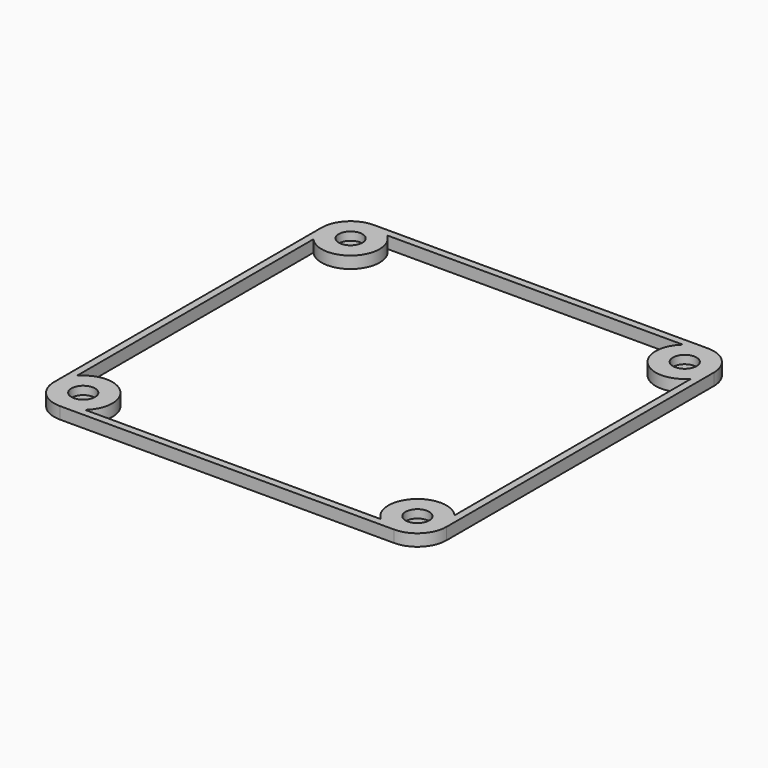
from build123d import *

# Parameters (mm, degrees)
SKETCH128_W     = 108
SKETCH128_H     = 108
PAD051_DEPTH    = 3.27
FILLET010_R     = 8
SKETCH129_R     = 3.25
POCKET051_DEPTH = 2.27
POCKET050_DEPTH = 3.271


with BuildPart() as part:
    # Sketch128 → Pad051 (new body)
    with BuildSketch(Plane.XY):
        with Locations((54, 54)):
            Rectangle(SKETCH128_W, SKETCH128_H)
    extrude(amount=PAD051_DEPTH)

    # Fillet010
    fillet010_edges = [part.edges().sort_by_distance(p)[0] for p in [
        (108, 0, 1.635),
        (108, 108, 1.635),
        (0, 108, 1.635),
        (0, 0, 1.635),
    ]]
    fillet(fillet010_edges, radius=FILLET010_R)

    # Sketch129 (on Face5 of Fillet010) → Pocket051 (cut)
    with BuildSketch(Plane.XY.offset(3.27)):
        with Locations((8, 8)):
            Circle(SKETCH129_R)
        with Locations((100, 8)):
            Circle(SKETCH129_R)
        with Locations((100, 100)):
            Circle(SKETCH129_R)
        with Locations((8, 100)):
            Circle(SKETCH129_R)
    extrude(amount=-POCKET051_DEPTH, mode=Mode.SUBTRACT)

    # Sketch130 (on Face5 of Pocket051) → Pocket050 (cut, through all)
    with BuildSketch(Plane.XY.offset(3.27)):
        with BuildLine():
            Line((2, 94.708497), (2, 13.291503))
            ThreePointArc((13.291503, 2), (13.655204, 13.655204), (2, 13.291503))
            Line((13.291503, 2), (94.708497, 2))
            ThreePointArc((106, 13.291503), (94.343146, 13.656854), (94.708497, 2))
            Line((106, 94.708497), (106, 13.291503))
            ThreePointArc((94.708497, 106), (94.342737, 94.342737), (106, 94.708497))
            Line((13.291503, 106), (94.708497, 106))
            ThreePointArc((2, 94.708497), (13.656854, 94.343146), (13.291503, 106))
        make_face()
    extrude(amount=-POCKET050_DEPTH, mode=Mode.SUBTRACT)


with BuildPart() as part_1:
    # Body023 placement: moved
    add(part.part.moved(Location((0, 0, 102))))


solid = part_1.part
